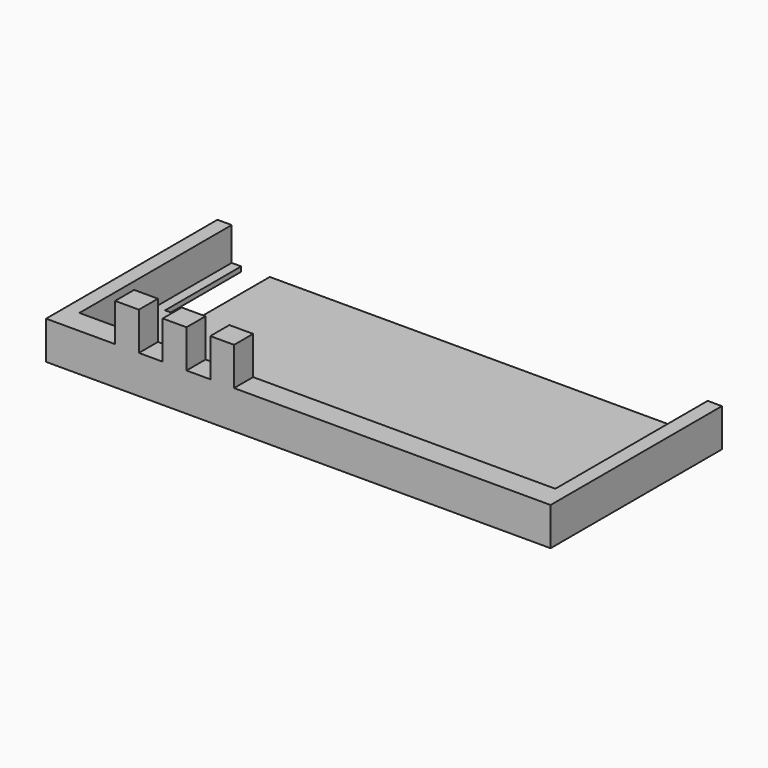
from build123d import *

# Parameters (mm, degrees)
SKETCH010_W     = 53
SKETCH010_H     = 22.5
PAD006_DEPTH    = 4
SKETCH011_W     = 50
SKETCH011_H     = 20
POCKET004_DEPTH = 3.5
SKETCH012_W     = 2.5
SKETCH012_H     = 2.5
PAD007_DEPTH    = 4
SKETCH016_W     = 3
SKETCH016_H     = 10
POCKET006_DEPTH = 0.501


with BuildPart() as part:
    # Sketch010 → Pad006 (new body)
    with BuildSketch(Plane.XY):
        Rectangle(SKETCH010_W, SKETCH010_H)
    extrude(amount=PAD006_DEPTH)

    # Sketch011 (on Face6 of Pad006) → Pocket004 (cut)
    with BuildSketch(Plane.XY.offset(4)):
        with Locations((0, 1.25)):
            Rectangle(SKETCH011_W, SKETCH011_H)
    extrude(amount=-POCKET004_DEPTH, mode=Mode.SUBTRACT)

    # Sketch012 (on Face4 of Pocket004) → Pad007 (join)
    with BuildSketch(Plane.XY.offset(4)):
        with Locations((-18, -10)):
            Rectangle(SKETCH012_W, SKETCH012_H)
        with Locations((-13, -10)):
            Rectangle(SKETCH012_W, SKETCH012_H)
        with Locations((-8, -10)):
            Rectangle(SKETCH012_W, SKETCH012_H)
    extrude(amount=PAD007_DEPTH)

    # Sketch016 (on Face6 of Pad007) → Pocket006 (cut, through all)
    with BuildSketch(Plane.XY.offset(0.5)):
        with Locations((-22.5, 6.25)):
            Rectangle(SKETCH016_W, SKETCH016_H)
    extrude(amount=-POCKET006_DEPTH, mode=Mode.SUBTRACT)


with BuildPart() as part_1:
    # Body003 placement: moved
    add(part.part.moved(Location((0, -40, 0))))


solid = part_1.part
